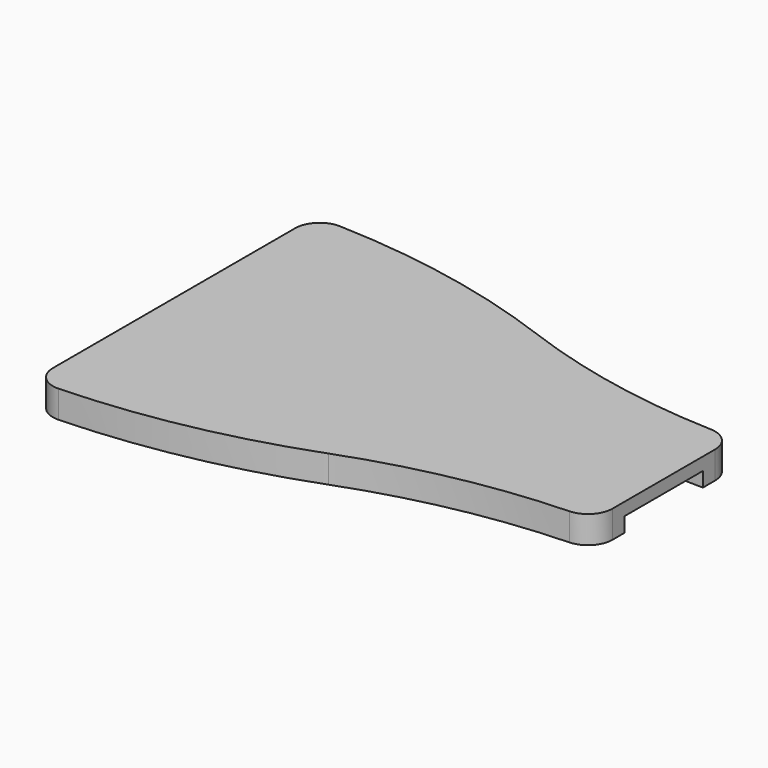
from build123d import *

# Parameters (mm, degrees)
F1_DEPTH = 28
F2_START = 10
F2_DEPTH = 18
F3_START = 15
F3_DEPTH = 13


with BuildPart() as f1:
    # F0 (on Top) → F1 (new body)
    with BuildSketch(Plane.XY):
        with BuildLine():
            ThreePointArc((475.8903838544, 90.4294724937), (368.2302608049, 102.9485734508), (263.9480821387, 132.489345215))
            ThreePointArc((263.9480821387, 132.489345215), (146.799756159, 165.6285981358), (25.853889943, 179.5583436206))
            ThreePointArc((25.853889943, 179.5583436206), (7.6268489987, 172.5499609003), (0, 154.5729304368))
            Line((0, 154.5729304368), (0, 140))
            Line((0, 140), (20.5838015129, 140))
            ThreePointArc((20.5838015129, 140), (22.260852496, 140.5125314072), (23.3648759456, 141.875))
            ThreePointArc((23.3648759456, 141.875), (31.5355339059, 143.5355339059), (29.875, 135.3648759456))
            ThreePointArc((29.875, 135.3648759456), (28.5125314072, 134.260852496), (28, 132.5838015129))
            Line((28, 132.5838015129), (28, 128.9779645573))
            Line((28, 128.9779645573), (28, -128.9779645573))
            Line((28, -128.9779645573), (28, -132.5838015129))
            ThreePointArc((28, -132.5838015129), (28.5125314072, -134.260852496), (29.875, -135.3648759456))
            ThreePointArc((29.875, -135.3648759456), (31.5355339059, -143.5355339059), (23.3648759456, -141.875))
            ThreePointArc((23.3648759456, -141.875), (22.260852496, -140.5125314072), (20.5838015129, -140))
            Line((20.5838015129, -140), (0, -140))
            Line((0, -140), (0, -154.5729304368))
            ThreePointArc((0, -154.5729304368), (7.6268489987, -172.5499609003), (25.853889943, -179.5583436206))
            ThreePointArc((25.853889943, -179.5583436206), (146.799756159, -165.6285981358), (263.9480821387, -132.489345215))
            ThreePointArc((263.9480821387, -132.489345215), (368.2302608049, -102.9485734508), (475.8903838544, -90.4294724937))
            ThreePointArc((475.8903838544, -90.4294724937), (492.989713677, -82.8053505266), (500, -65.445333193))
            Line((500, -65.445333193), (500, -50))
            ThreePointArc((500, -50), (489.712690089, -50.0738092009), (479.4274983284, -50.2952216062))
            ThreePointArc((479.4274983284, -50.2952216062), (477.7595252441, -50.8602066094), (476.6959890071, -52.2638564719))
            ThreePointArc((476.6959890071, -52.2638564719), (468.5248750874, -54.1419014019), (470.125, -45.9118494147))
            ThreePointArc((470.125, -45.9118494147), (471.4874685928, -44.8078259652), (472, -43.1307749821))
            Line((472, -43.1307749821), (472, -40.993877733))
            Line((472, -40.993877733), (472, 40.993877733))
            Line((472, 40.993877733), (472, 43.1307749821))
            ThreePointArc((472, 43.1307749821), (471.4874685928, 44.8078259652), (470.125, 45.9118494147))
            ThreePointArc((470.125, 45.9118494147), (468.5248750874, 54.1419014019), (476.6959890071, 52.2638564719))
            ThreePointArc((476.6959890071, 52.2638564719), (477.7595252441, 50.8602066094), (479.4274983284, 50.2952216062))
            ThreePointArc((479.4274983284, 50.2952216062), (489.712690089, 50.0738092009), (500, 50))
            Line((500, 50), (500, 65.445333193))
            ThreePointArc((500, 65.445333193), (492.989713677, 82.8053505266), (475.8903838544, 90.4294724937))
        make_face()
    extrude(amount=F1_DEPTH)

    # F0 (on Top) → F2 (join)
    with BuildSketch(Plane.XY.offset(F2_START)):
        with BuildLine():
            Line((20.5838015129, 140), (0, 140))
            Line((0, 140), (0, -140))
            Line((0, -140), (20.5838015129, -140))
            ThreePointArc((20.5838015129, -140), (22.260852496, -140.5125314072), (23.3648759456, -141.875))
            ThreePointArc((23.3648759456, -141.875), (31.5355339059, -143.5355339059), (29.875, -135.3648759456))
            ThreePointArc((29.875, -135.3648759456), (28.5125314072, -134.260852496), (28, -132.5838015129))
            Line((28, -132.5838015129), (28, -128.9779645573))
            Line((28, -128.9779645573), (28, 128.9779645573))
            Line((28, 128.9779645573), (28, 132.5838015129))
            ThreePointArc((28, 132.5838015129), (28.5125314072, 134.260852496), (29.875, 135.3648759456))
            ThreePointArc((29.875, 135.3648759456), (31.5355339059, 143.5355339059), (23.3648759456, 141.875))
            ThreePointArc((23.3648759456, 141.875), (22.260852496, 140.5125314072), (20.5838015129, 140))
        make_face()
    extrude(amount=F2_DEPTH)

    # F0 (on Top) → F3 (join)
    with BuildSketch(Plane.XY.offset(F3_START)):
        with BuildLine():
            Line((500, -50), (500, 50))
            ThreePointArc((500, 50), (489.712690089, 50.0738092009), (479.4274983284, 50.2952216062))
            ThreePointArc((479.4274983284, 50.2952216062), (477.7595252441, 50.8602066094), (476.6959890071, 52.2638564719))
            ThreePointArc((476.6959890071, 52.2638564719), (468.5248750874, 54.1419014019), (470.125, 45.9118494147))
            ThreePointArc((470.125, 45.9118494147), (471.4874685928, 44.8078259652), (472, 43.1307749821))
            Line((472, 43.1307749821), (472, 40.993877733))
            Line((472, 40.993877733), (472, -40.993877733))
            Line((472, -40.993877733), (472, -43.1307749821))
            ThreePointArc((472, -43.1307749821), (471.4874685928, -44.8078259652), (470.125, -45.9118494147))
            ThreePointArc((470.125, -45.9118494147), (468.5248750874, -54.1419014019), (476.6959890071, -52.2638564719))
            ThreePointArc((476.6959890071, -52.2638564719), (477.7595252441, -50.8602066094), (479.4274983284, -50.2952216062))
            ThreePointArc((479.4274983284, -50.2952216062), (489.712690089, -50.0738092009), (500, -50))
        make_face()
    extrude(amount=F3_DEPTH)


solid = f1.part
